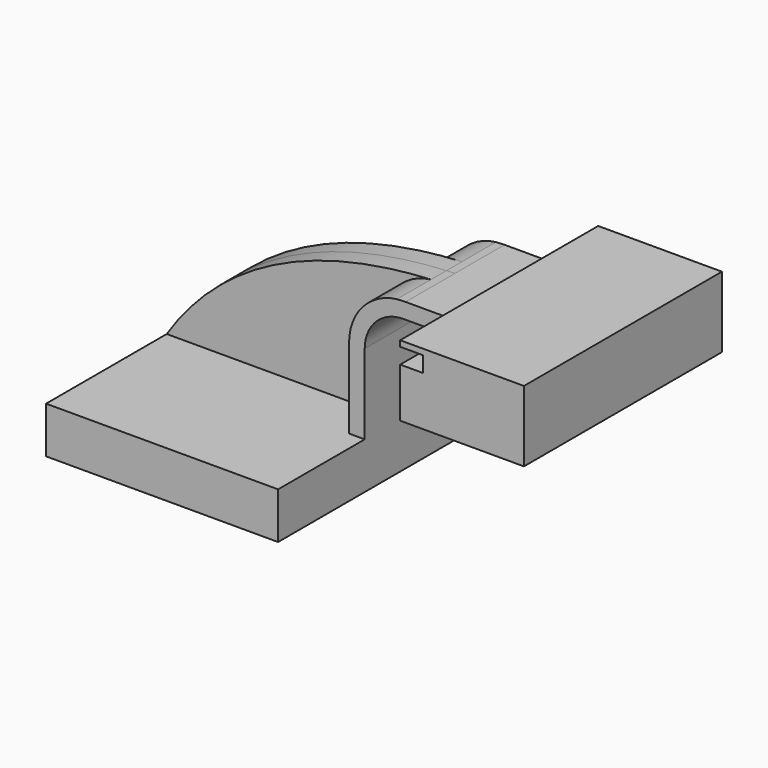
from build123d import *

# Parameters (mm, degrees)
F1_DEPTH = 69.85
F2_DEPTH = 7.9375
F3_DEPTH = 25.4
F4_DEPTH = 50.8


with BuildPart() as f1:
    # F0 (on Front) → F1 (new body, symmetric)
    with BuildSketch(Plane.XZ):
        Polygon((-47.625, 9.525), (-47.625, -9.525), (47.625, -9.525), (47.625, 9.525), (41.197957, 9.525), align=None)
    extrude(amount=F1_DEPTH, both=True)

    # F0 (on Front) → F2 (join, symmetric)
    with BuildSketch(Plane.XZ):
        with BuildLine():
            add(Edge.make_bspline(
                [(-47.625, 9.525), (-25.200024, 43.95073), (11.923234, 61.926834), (60.856011, 64.4865)],
                knots=[0, 0, 0, 0, 123.682628, 123.682628, 123.682628, 123.682628], degree=3))
            Line((-47.625, 9.525), (41.197957, 9.525))
            Line((41.197957, 9.525), (41.197957, 42.34174))
            ThreePointArc((41.197957, 42.34174), (46.821459, 57.147393), (60.856011, 64.4865))
        make_face()
    extrude(amount=F2_DEPTH, both=True)

    # F0 (on Front) → F3 (join, symmetric)
    with BuildSketch(Plane.XZ):
        with BuildLine():
            Line((41.197957, 9.525), (47.625, 9.525))
            Line((47.625, 9.525), (47.625, 42.34174))
            ThreePointArc((47.625, 42.34174), (52.27468, 53.56706), (63.5, 58.21674))
            Line((63.5, 58.21674), (82.50929, 58.21674))
            Line((82.50929, 58.21674), (82.50929, 64.643782))
            Line((82.50929, 64.643782), (64.388974, 64.643782))
            add(Edge.make_bspline(
                [(60.856011, 64.4865), (62.026916, 64.54775), (63.204584, 64.600173), (64.388974, 64.643782)],
                knots=[123.682628, 123.682628, 123.682628, 123.682628, 126.642212, 126.642212, 126.642212, 126.642212], degree=3))
            ThreePointArc((60.856011, 64.4865), (46.821459, 57.147393), (41.197957, 42.34174))
            Line((41.197957, 42.34174), (41.197957, 9.525))
        make_face()
    extrude(amount=F3_DEPTH, both=True)


with BuildPart() as f4:
    # F0 (on Front) → F4 (new body, symmetric)
    with BuildSketch(Plane.XZ):
        Polygon((82.50929, 67.018588), (82.50929, 64.643782), (91.921728, 64.643782), (91.921728, 58.21674), (82.50929, 58.21674), (82.50929, 37.935588), (133.30929, 37.935588), (133.30929, 67.018588), align=None)
    extrude(amount=F4_DEPTH, both=True)


solid = Compound([f1.part, f4.part])
